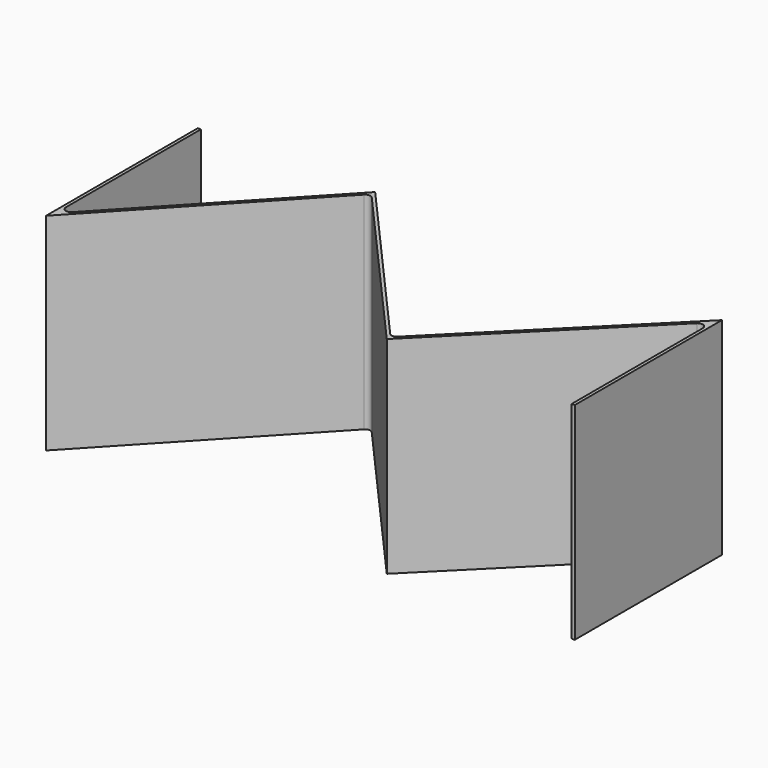
from build123d import *

# Parameters (mm, degrees)
F1_DEPTH = 50.546
F2_R     = 1.27


with BuildPart() as f1:
    # F0 (on Top) → F1 (new body)
    with BuildSketch(Plane.XY):
        Polygon((-31.618166, -32.146781), (-31.618166, 12.303219), (-32.380166, 12.303219), (-32.380166, -34.073195), (10.55717, 11.709783), (50.289296, -33.25828), (94.619834, 11.003976), (94.619834, -32.146781), (95.381834, -32.146781), (95.381834, 12.841604), (50.324047, -32.146781), (10.573965, 12.841604), align=None)
    extrude(amount=F1_DEPTH)

    # F2
    f2_edges = [f1.edges().sort_by_distance(p)[0] for p in [
        (10.55717, 11.709783, 25.273),
        (-31.618166, -32.146781, 25.273),
        (50.324047, -32.146781, 25.273),
        (94.619834, 11.003976, 25.273),
    ]]
    fillet(f2_edges, radius=F2_R)


solid = f1.part
